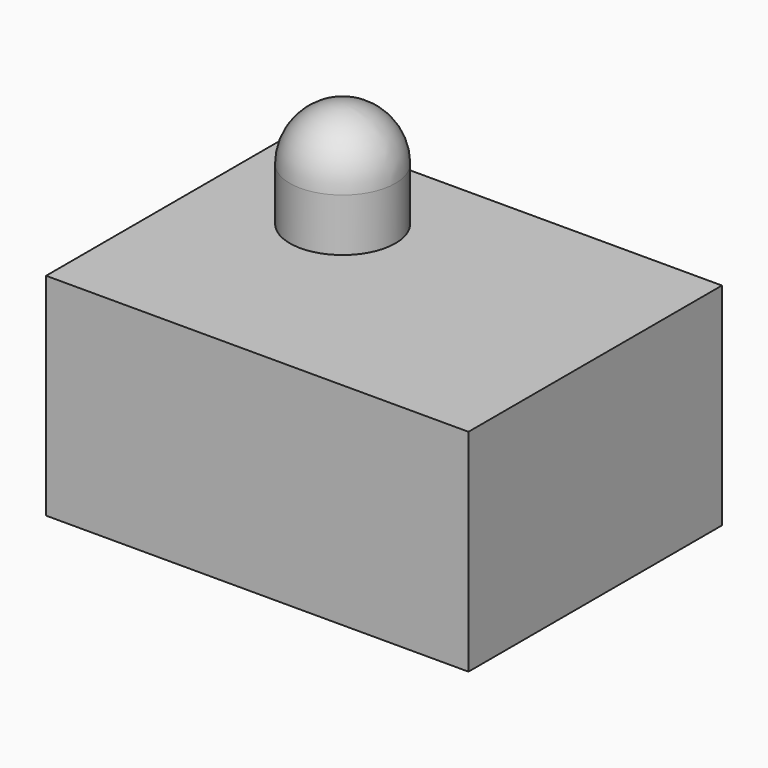
from build123d import *

# Parameters (mm, degrees)
F0_W          = 101.6
F0_H          = 76.2
F1_DEPTH      = 50.8
F2_R          = 12.7
F3_DEPTH      = 25.4
F3_DEPTH_BACK = 25.4
F4_R          = 12.7


with BuildPart() as f1:
    # F0 (on Top) → F1 (new body)
    with BuildSketch(Plane.XY):
        with Locations((7.105511, -7.764197)):
            Rectangle(F0_W, F0_H)
    extrude(amount=F1_DEPTH)


with BuildPart() as f3:
    # F2 (on face) → F3 (new body, two sides)
    with BuildSketch(Plane.XY.offset(50.8)) as f3_sk:
        with Locations((-13.388594, 5.419864)):
            Circle(F2_R)
    extrude(amount=F3_DEPTH)
    extrude(f3_sk.sketch, amount=-F3_DEPTH_BACK)

    # F4
    f4_edges = [f3.edges().sort_by_distance(p)[0] for p in [
        (-26.088594, 5.419864, 76.2),
    ]]
    fillet(f4_edges, radius=F4_R)


solid = Compound([f1.part, f3.part])
